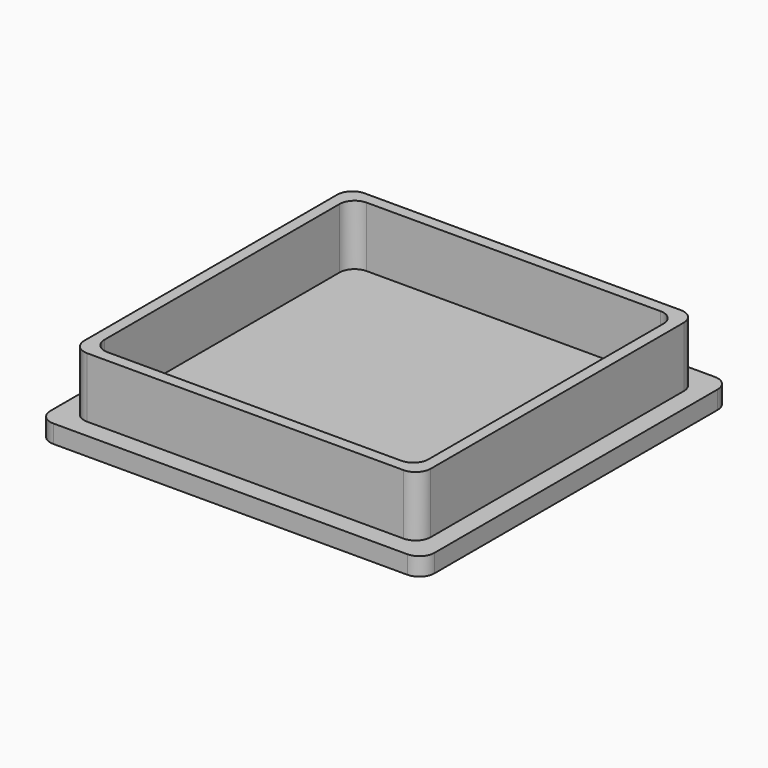
from build123d import *

# Parameters (mm, degrees)
F0_W     = 25.5
F0_H     = 25.5
F1_DEPTH = 1.2
F2_W     = 23
F2_H     = 23
F2_W_2   = 21.5
F2_H_2   = 21.5
F3_DEPTH = 4
F4_R     = 1
F5_R     = 1


with BuildPart() as f1:
    # F0 (on Top) → F1 (new body)
    with BuildSketch(Plane.XY):
        Rectangle(F0_W, F0_H)
    extrude(amount=F1_DEPTH)

    # F2 (on face) → F3 (join)
    with BuildSketch(Plane.XY.offset(1.2)):
        Rectangle(F2_W, F2_H)
        Rectangle(F2_W_2, F2_H_2, mode=Mode.SUBTRACT)
    extrude(amount=F3_DEPTH)

    # F4
    f4_edges = [f1.edges().sort_by_distance(p)[0] for p in [
        (-10.75, 10.75, 3.2),
        (10.75, 10.75, 3.2),
        (10.75, -10.75, 3.2),
        (-10.75, -10.75, 3.2),
    ]]
    fillet(f4_edges, radius=F4_R)

    # F5
    f5_edges = [f1.edges().sort_by_distance(p)[0] for p in [
        (11.5, 11.5, 3.2),
        (11.5, -11.5, 3.2),
        (-11.5, 11.5, 3.2),
        (-11.5, -11.5, 3.2),
        (-12.75, 12.75, 0.6),
        (12.75, 12.75, 0.6),
        (12.75, -12.75, 0.6),
        (-12.75, -12.75, 0.6),
    ]]
    fillet(f5_edges, radius=F5_R)


solid = f1.part
